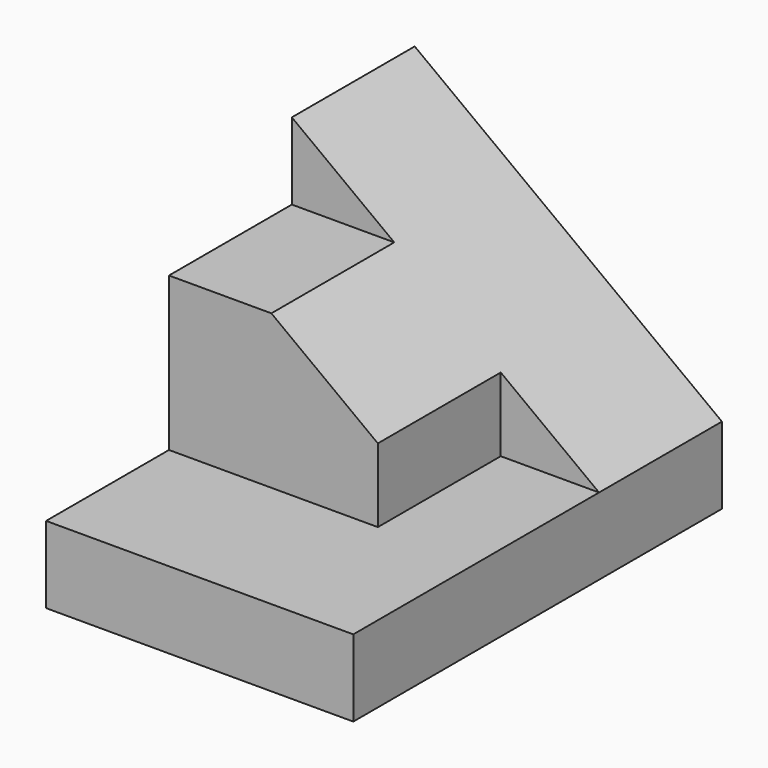
from build123d import *

# Parameters (mm, degrees)
F0_W      = 25.4
F0_H      = 38.1
F1_DEPTH  = 25.4
F3_DEPTH  = 50.8
F4_W      = 12.7
F4_H      = 19.05
F5_DEPTH  = 50.8
F7_W      = 12.7
F7_H      = 6.35
F8_DEPTH  = 25.4
F9_W      = 8.128
F9_H      = 6.35
F10_DEPTH = 25.4


with BuildPart() as f1:
    # F0 (on Top) → F1 (new body)
    with BuildSketch(Plane.XY):
        with Locations((12.7, 19.05)):
            Rectangle(F0_W, F0_H)
    extrude(amount=F1_DEPTH)

    # F2 (on Front) → F3 (cut)
    with BuildSketch(Plane.XZ):
        Polygon((25.4, 25.4), (0, 25.4), (25.4, 6.35), align=None)
    extrude(amount=-F3_DEPTH, mode=Mode.SUBTRACT)

    # F4 (on Right) → F5 (cut)
    with BuildSketch(Plane.YZ):
        with Locations((6.35, 15.875)):
            Rectangle(F4_W, F4_H)
    extrude(amount=F5_DEPTH, mode=Mode.SUBTRACT)

    # F7 (on Right) → F8 (cut)
    with BuildSketch(Plane.YZ):
        with Locations((19.05, 22.225)):
            Rectangle(F7_W, F7_H)
    extrude(amount=F8_DEPTH, mode=Mode.SUBTRACT)

    # F9 (on Front) → F10 (cut)
    with BuildSketch(Plane.XZ):
        with Locations((21.336, 9.525)):
            Rectangle(F9_W, F9_H)
    extrude(amount=-F10_DEPTH, mode=Mode.SUBTRACT)


solid = f1.part
